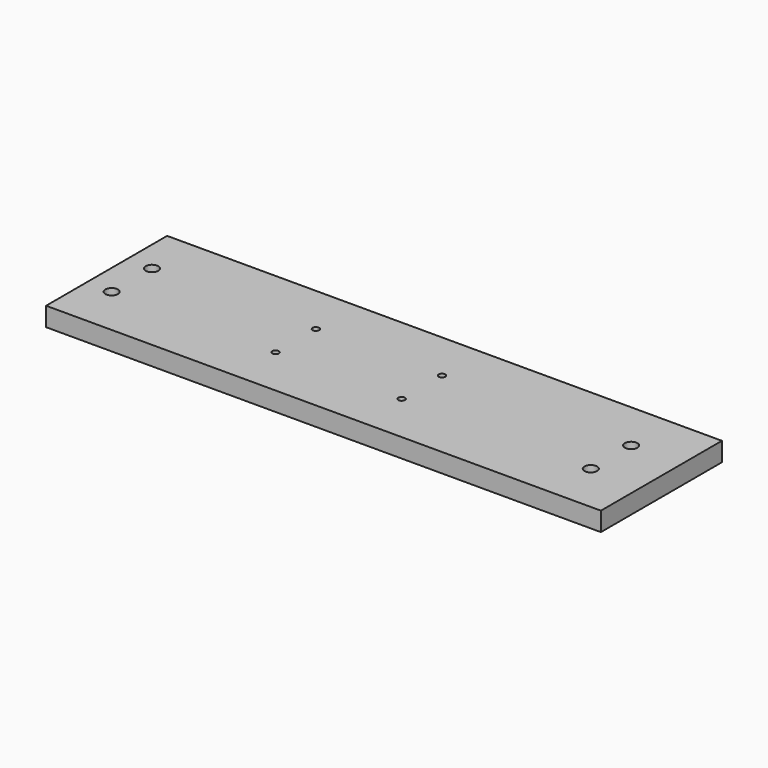
from build123d import *

# Parameters (mm, degrees)
F0_R     = 3.175
F0_R_2   = 1.651
F1_DEPTH = 4.7625


with BuildPart() as f1:
    # F0 (on Top) → F1 (new body, symmetric)
    with BuildSketch(Plane.XY):
        Polygon((139.7, 38.1), (-139.7, 38.1), (-139.7, 0), (-139.7, -38.1), (139.7, -38.1), align=None)
        with Locations((-127, -12.7)):
            Circle(F0_R, mode=Mode.SUBTRACT)
        with Locations((-44.45, -12.7)):
            Circle(F0_R_2, mode=Mode.SUBTRACT)
        with Locations((19.05, -12.7)):
            Circle(F0_R_2, mode=Mode.SUBTRACT)
        with Locations((114.3, -12.7)):
            Circle(F0_R, mode=Mode.SUBTRACT)
        with Locations((-127, 12.7)):
            Circle(F0_R, mode=Mode.SUBTRACT)
        with Locations((-44.45, 12.7)):
            Circle(F0_R_2, mode=Mode.SUBTRACT)
        with Locations((19.05, 12.7)):
            Circle(F0_R_2, mode=Mode.SUBTRACT)
        with Locations((114.3, 12.7)):
            Circle(F0_R, mode=Mode.SUBTRACT)
    extrude(amount=F1_DEPTH, both=True)


solid = f1.part
